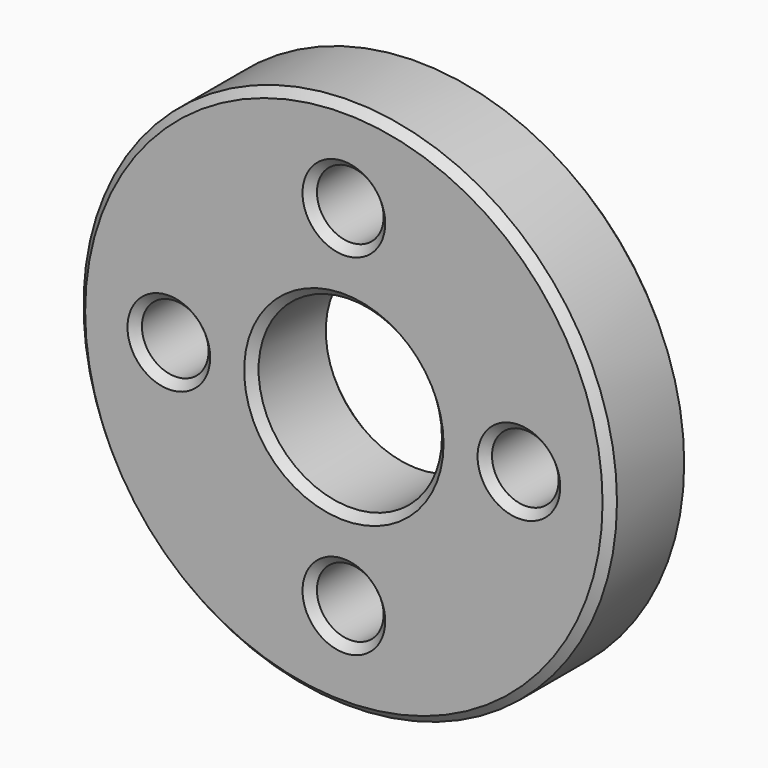
from build123d import *

# Parameters (mm, degrees)
F0_R     = 50.8
F0_R_2   = 6.35
F0_R_3   = 17.4625
F1_DEPTH = 19.05
F2_SIZE  = 1.524
F3_SIZE  = 1.524
F4_SIZE  = 1.524
F5_SIZE  = 1.524
F6_SIZE  = 1.524
F7_SIZE  = 1.524
F8_SIZE  = 1.524
F9_SIZE  = 1.524


with BuildPart() as f1:
    # F0 (on Front) → F1 (new body)
    with BuildSketch(Plane.XZ):
        Circle(F0_R)
        with Locations((0, -33.3375)):
            Circle(F0_R_2, mode=Mode.SUBTRACT)
        with Locations((-33.3375, 0)):
            Circle(F0_R_2, mode=Mode.SUBTRACT)
        Circle(F0_R_3, mode=Mode.SUBTRACT)
        with Locations((33.3375, 0)):
            Circle(F0_R_2, mode=Mode.SUBTRACT)
        with Locations((0, 33.3375)):
            Circle(F0_R_2, mode=Mode.SUBTRACT)
    extrude(amount=F1_DEPTH)

    # F2
    f2_edges = [f1.edges().sort_by_distance(p)[0] for p in [
        (-50.8, -19.05, 0),
    ]]
    chamfer(f2_edges, length=F2_SIZE)

    # F3
    f3_edges = [f1.edges().sort_by_distance(p)[0] for p in [
        (-6.35, -19.05, 33.3375),
    ]]
    chamfer(f3_edges, length=F3_SIZE)

    # F4
    f4_edges = [f1.edges().sort_by_distance(p)[0] for p in [
        (-39.6875, -19.05, 0),
    ]]
    chamfer(f4_edges, length=F4_SIZE)

    # F5
    f5_edges = [f1.edges().sort_by_distance(p)[0] for p in [
        (-6.35, -19.05, -33.3375),
    ]]
    chamfer(f5_edges, length=F5_SIZE)

    # F6
    f6_edges = [f1.edges().sort_by_distance(p)[0] for p in [
        (26.9875, -19.05, 0),
    ]]
    chamfer(f6_edges, length=F6_SIZE)

    # F7
    f7_edges = [f1.edges().sort_by_distance(p)[0] for p in [
        (-17.4625, -19.05, 0),
    ]]
    chamfer(f7_edges, length=F7_SIZE)

    # F8
    f8_edges = [f1.edges().sort_by_distance(p)[0] for p in [
        (-50.8, 0, 0),
    ]]
    chamfer(f8_edges, length=F8_SIZE)

    # F9
    f9_edges = [f1.edges().sort_by_distance(p)[0] for p in [
        (-6.35, 0, -33.3375),
        (26.9875, 0, 0),
        (-6.35, 0, 33.3375),
        (-39.6875, 0, 0),
        (-17.4625, 0, 0),
    ]]
    chamfer(f9_edges, length=F9_SIZE)


solid = f1.part
